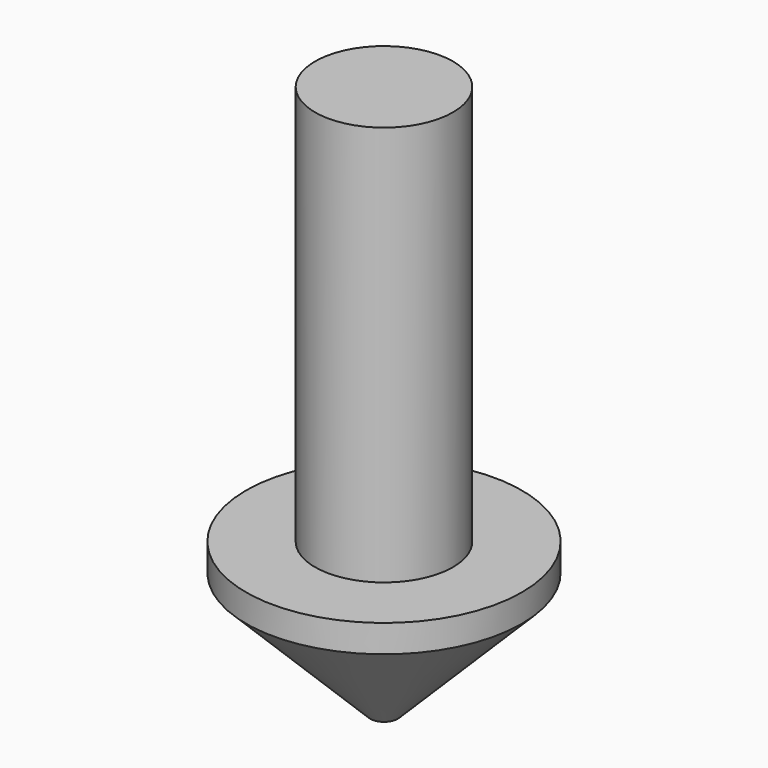
from build123d import *


with BuildPart() as part:
    # Sketch → Revolution (revolve)
    with BuildSketch(Plane.XZ):
        Polygon((0, 20), (0, 0), (0.500025, 0), (5, 4.499975), (5, 5.499975), (2.5, 5.489975), (2.5, 20), align=None)
    revolve(axis=Axis((0, 0, 0), (0, 0, 1)))


solid = part.part
